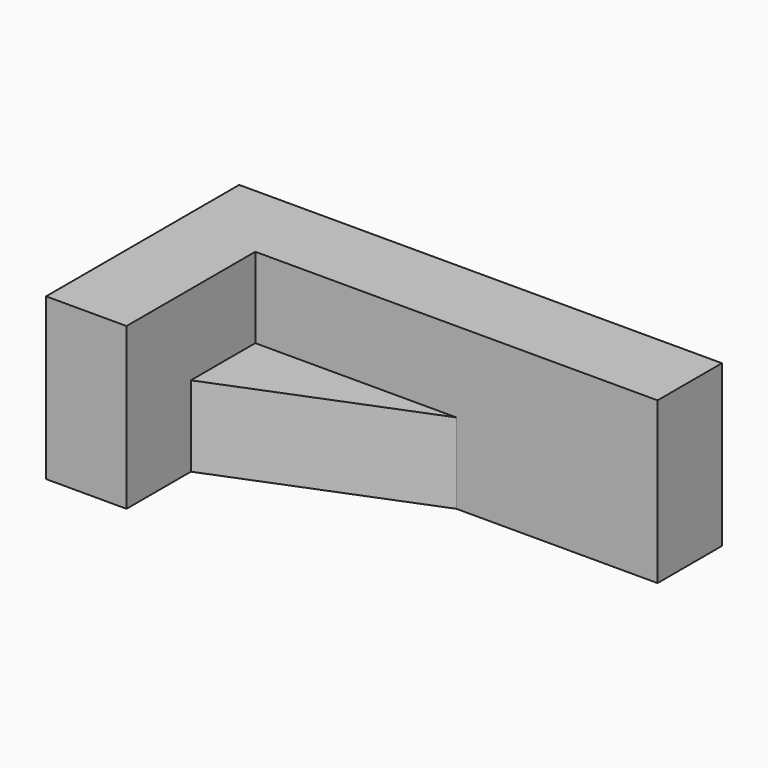
from build123d import *

# Parameters (mm, degrees)
F0_W     = 152.4
F0_H     = 50.8
F1_DEPTH = 76.2
F2_W     = 127
F2_H     = 50.8
F3_DEPTH = 50.8
F5_DEPTH = 25.4


with BuildPart() as f1:
    # F0 (on Front) → F1 (new body)
    with BuildSketch(Plane.XZ):
        with Locations((76.2, 25.4)):
            Rectangle(F0_W, F0_H)
    extrude(amount=-F1_DEPTH)

    # F2 (on face) → F3 (cut)
    with BuildSketch(Plane.XY.offset(50.8)):
        with Locations((88.9, 25.4)):
            Rectangle(F2_W, F2_H)
    extrude(amount=-F3_DEPTH, mode=Mode.SUBTRACT)

    # F4 (on face) → F5 (join)
    with BuildSketch(Plane(origin=(0, 0, 0), x_dir=(1, 0, 0), z_dir=(0, 0, -1))):
        Polygon((25.4, -25.4), (25.4, -50.8), (88.9, -50.8), align=None)
    extrude(amount=-F5_DEPTH)


solid = f1.part
